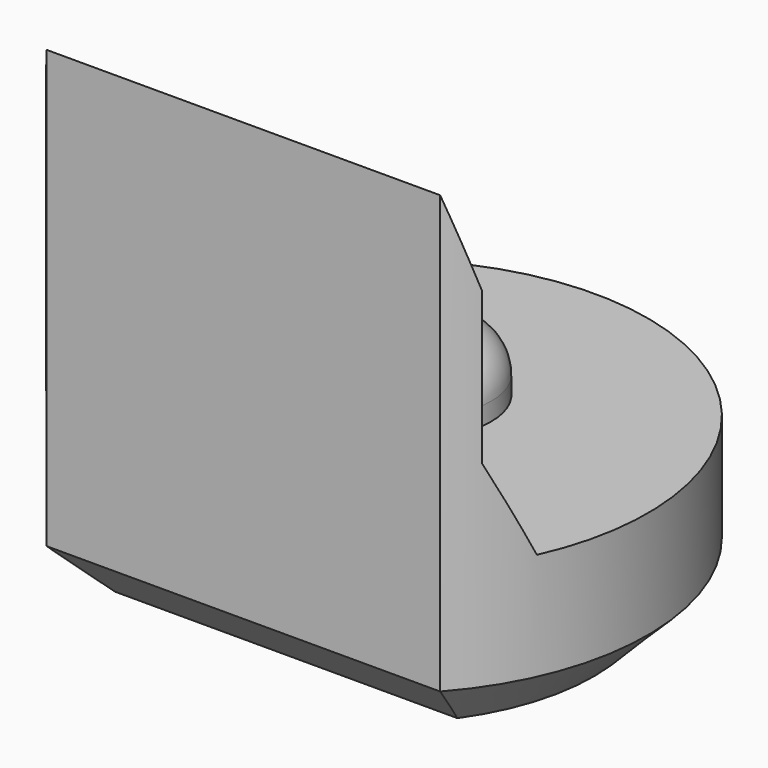
from build123d import *

# Parameters (mm, degrees)
PAD003_DEPTH         = 5.5
POCKET004_DEPTH      = 2.951
POCKET004_DEPTH_BACK = 2.951
SKETCH013_R          = 0.8
PAD006_DEPTH         = 0.7
FILLET_R             = 0.5
CHAMFER004_SIZE      = 0.6


with BuildPart() as part:
    # Sketch004 → Pad003 (new body)
    with BuildSketch(Plane.XY):
        with BuildLine():
            ThreePointArc((2.2, -1.9653244007), (0, 2.95), (-2.2, -1.9653244007))
            Line((-2.2, -1.9653244007), (2.2, -1.9653244007))
        make_face()
    extrude(amount=PAD003_DEPTH)

    # Sketch014 → Pocket004 (cut, two sides)
    with BuildSketch(Plane.YZ) as pocket004_sk:
        Polygon((-1.97, 5.5), (-1.67, 4.5), (-1.67, 2.8), (-1.22, 1.8), (4, 1.8), (4, 5.5), align=None)
    extrude(amount=-POCKET004_DEPTH, mode=Mode.SUBTRACT)
    extrude(pocket004_sk.sketch, amount=POCKET004_DEPTH_BACK, mode=Mode.SUBTRACT)

    # Sketch013 (on Face7 of Pocket004) → Pad006 (join)
    with BuildSketch(Plane.XY.offset(1.8)):
        with Locations((0, 0.5)):
            Circle(SKETCH013_R)
    extrude(amount=PAD006_DEPTH)

    # Fillet
    fillet_edges = [part.edges().sort_by_distance(p)[0] for p in [
        (-0.8, 0.5, 2.5),
    ]]
    fillet(fillet_edges, radius=FILLET_R)

    # Chamfer004
    chamfer004_edges = [part.edges().sort_by_distance(p)[0] for p in [
        (0, 2.95, 0),
        (0, -1.965324, 0),
    ]]
    chamfer(chamfer004_edges, length=CHAMFER004_SIZE)


with BuildPart() as part_1:
    # Body028 placement: moved
    add(part.part.moved(Location((0, 54, 0))))


solid = part_1.part
